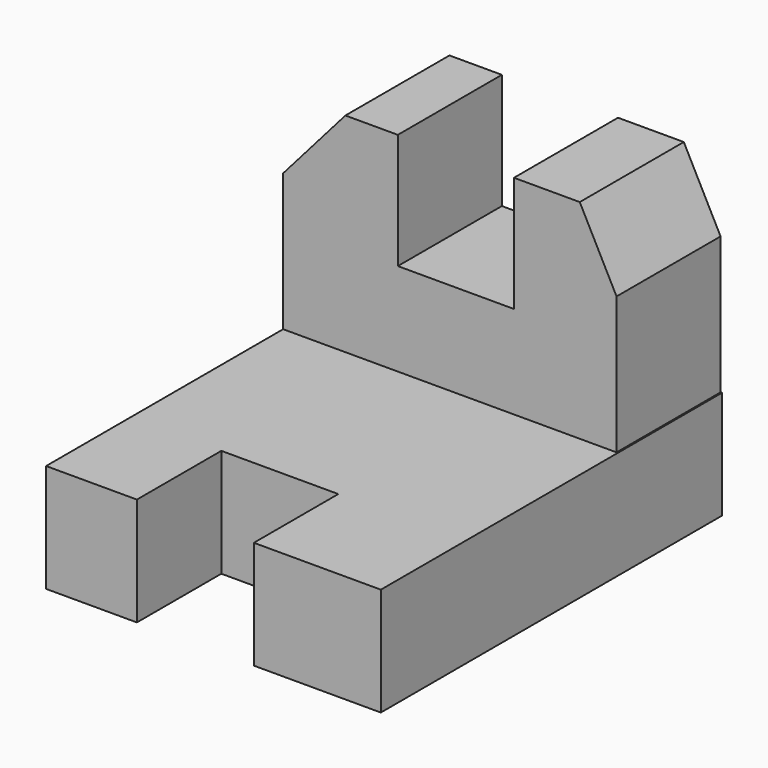
from build123d import *

# Parameters (mm, degrees)
F0_W      = 101.6
F0_H      = 101.6
F1_DEPTH  = 75.438
F2_W      = 28.0288234353
F2_H      = 9.1542927548
F3_DEPTH  = 25.4
F4_W      = 101.6
F4_H      = 49.6587024246
F5_DEPTH  = 70.612
F6_W      = 27.8729833663
F6_H      = 25.5314931273
F7_DEPTH  = 25.146
F9_DEPTH  = 68.072
F10_DEPTH = 25.4
F12_DEPTH = 60.96
F13_W     = 27.6737101376
F13_H     = 27.5311653678
F14_DEPTH = 72.136
F15_DEPTH = 13.716
F16_DEPTH = 13.462
F18_DEPTH = 43.434


with BuildPart() as f1:
    # F0 (on Top) → F1 (new body)
    with BuildSketch(Plane.XY):
        with Locations((-50.8, -50.8)):
            Rectangle(F0_W, F0_H)
    extrude(amount=F1_DEPTH)

    # F2 (on face) → F3 (cut)
    with BuildSketch(Plane.XZ.offset(101.6)):
        with Locations((-57.5784109533, -4.5771463774)):
            Rectangle(F2_W, F2_H)
    extrude(amount=-F3_DEPTH, mode=Mode.SUBTRACT)

    # F4 (on face) → F5 (cut)
    with BuildSketch(Plane.XZ.offset(101.6)):
        with Locations((-50.8, 50.6086487877)):
            Rectangle(F4_W, F4_H)
    extrude(amount=-F5_DEPTH, mode=Mode.SUBTRACT)

    # F6 (on face) → F7 (cut)
    with BuildSketch(Plane.XZ.offset(101.6)):
        with Locations((-57.6563309878, 13.0135510117)):
            Rectangle(F6_W, F6_H)
    extrude(amount=-F7_DEPTH, mode=Mode.SUBTRACT)

    # F8 (on face) → F9 (cut)
    with BuildSketch(Plane.XZ.offset(30.988)):
        Polygon((-93.2351276278, 58.4865286946), (-78.3963426948, 75.438), (-101.6, 75.438), (-101.6, 25.7792975754), (-93.2351276278, 25.7792975754), align=None)
    extrude(amount=-F9_DEPTH, mode=Mode.SUBTRACT)

    # F10 (cut): a face of the model
    f10_faces = [f1.faces().sort_by_distance(p)[0] for p in [
        (-57.6563309878, -89.027, 0.247804448),
    ]]
    extrude(f10_faces, amount=-F10_DEPTH, mode=Mode.SUBTRACT)

    # F11 (on face) → F12 (cut)
    with BuildSketch(Plane.XZ.offset(30.988)):
        Polygon((0, 75.438), (-22.546928376, 75.438), (-13.7835862115, 58.4865286946), (-13.7835862115, 25.7792975754), (0, 25.7792975754), align=None)
    extrude(amount=-F12_DEPTH, mode=Mode.SUBTRACT)

    # F13 (on face) → F14 (cut)
    with BuildSketch(Plane.XZ.offset(30.988)):
        with Locations((-52.0655419677, 61.6724173161)):
            Rectangle(F13_W, F13_H)
    extrude(amount=-F14_DEPTH, mode=Mode.SUBTRACT)

    # F15 (add): a face of the model
    f15_faces = [f1.faces().sort_by_distance(p)[0] for p in [
        (0, -50.8, 12.8896487877),
    ]]
    extrude(f15_faces, amount=-F15_DEPTH)

    # F16 (cut): a face of the model
    f16_faces = [f1.faces().sort_by_distance(p)[0] for p in [
        (0, -50.8, 12.8896487877),
    ]]
    extrude(f16_faces, amount=-F16_DEPTH, mode=Mode.SUBTRACT)

    # F17 (on face) → F18 (cut)
    with BuildSketch(Plane.XY.offset(25.7792975754)):
        Polygon((-93.2351276278, -101.6), (-93.2351276278, -30.988), (-93.2351276278, 0), (-101.6, 0), (-101.6, -101.6), align=None)
    extrude(amount=-F18_DEPTH, mode=Mode.SUBTRACT)


solid = f1.part
